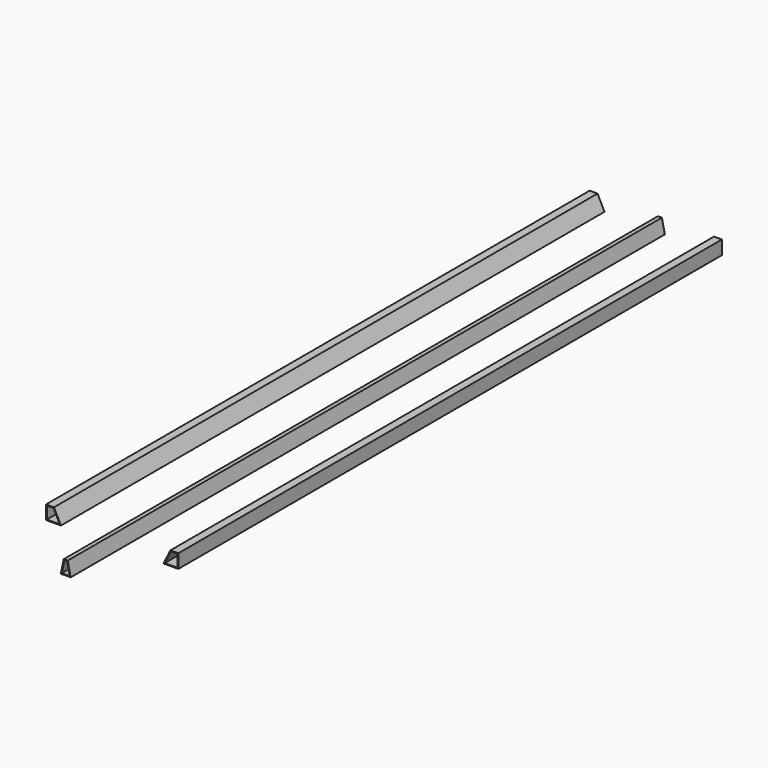
from build123d import *

# Parameters (mm, degrees)
F1_DEPTH = 2184.4
F2_T     = -2.54
F5_DEPTH = 2387.6
F6_T     = -2.54
F7_DEPTH = 2184.4
F8_T     = -2.54


with BuildPart() as f1:
    # F0 (on Front) → F1 (new body)
    with BuildSketch(Plane.XZ):
        Polygon((-177.910953, 24.129806), (-203.310953, 24.129806), (-203.310953, -20.320194), (-177.646502, -20.320194), (-155.634962, -20.320194), align=None)
    extrude(amount=F1_DEPTH)

    # F2
    f2_openings = [f1.faces().sort_by_distance(p)[0] for p in [
        (-184.476083, -2184.4, -0.3535),
        (-184.476083, 0, -0.3535),
    ]]
    offset(amount=F2_T, openings=f2_openings)


with BuildPart() as f5:
    # F3 (on Front) → F5 (new body)
    with BuildSketch(Plane.XZ):
        Polygon((16.109681, 23.184116), (6.584681, -21.265884), (38.334681, -21.265884), (28.809681, 23.184116), align=None)
    extrude(amount=F5_DEPTH)

    # F6
    f6_openings = [f5.faces().sort_by_distance(p)[0] for p in [
        (22.459681, 0, -2.215884),
        (22.459681, -2387.6, -2.215884),
    ]]
    offset(amount=F6_T, openings=f6_openings)


with BuildPart() as f7:
    # F4 (on Front) → F7 (new body)
    with BuildSketch(Plane.XZ):
        Polygon((221.82103, -20.347234), (221.82103, 24.102766), (196.42103, 24.102766), (174.145039, -20.347234), align=None)
    extrude(amount=F7_DEPTH)

    # F8
    f8_openings = [f7.faces().sort_by_distance(p)[0] for p in [
        (202.98616, -2184.4, -0.380541),
        (202.98616, 0, -0.380541),
    ]]
    offset(amount=F8_T, openings=f8_openings)


solid = Compound([f1.part, f5.part, f7.part])
